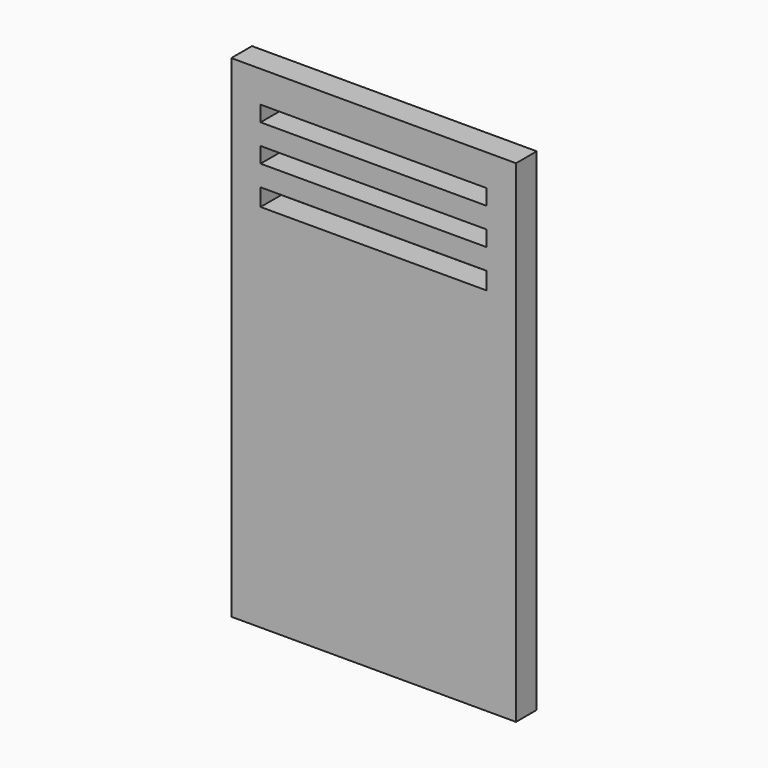
from build123d import *

# Parameters (mm, degrees)
F1_W     = 279.4
F1_H     = 482.6
F1_W_2   = 221.90693
F1_H_2   = 17.004371
F1_H_3   = 15.303909
F1_H_4   = 15.30391
F2_DEPTH = 25.4


with BuildPart() as f2:
    # F1 (on face) → F2 (new body)
    with BuildSketch(Plane.XZ):
        Rectangle(F1_W, F1_H)
        with Locations((0, 130.508482)):
            Rectangle(F1_W_2, F1_H_2, mode=Mode.SUBTRACT)
        with Locations((0, 167.06787)):
            Rectangle(F1_W_2, F1_H_3, mode=Mode.SUBTRACT)
        with Locations((0, 202.777028)):
            Rectangle(F1_W_2, F1_H_4, mode=Mode.SUBTRACT)
    extrude(amount=F2_DEPTH)


solid = f2.part
